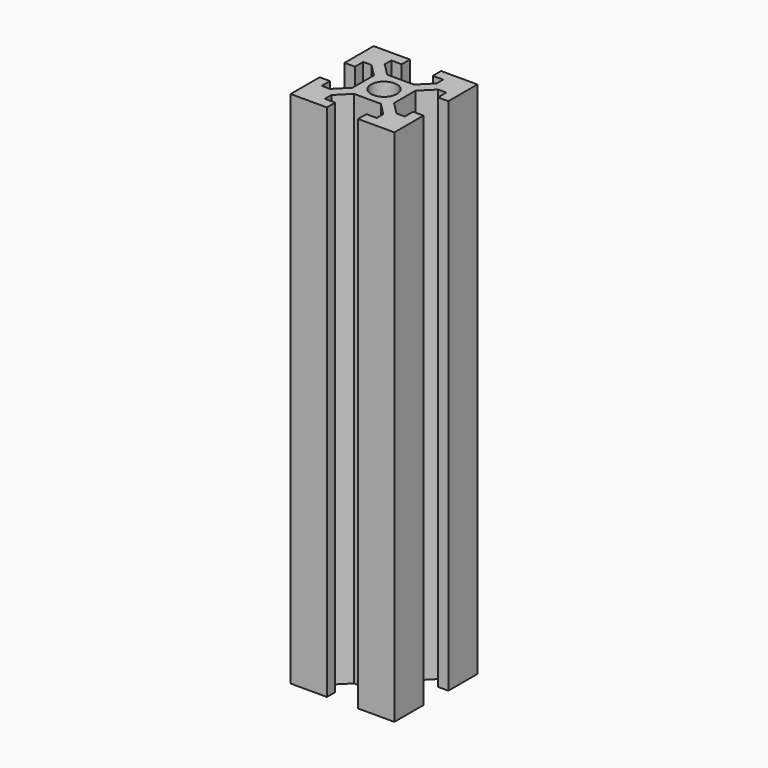
from build123d import *

# Parameters (mm, degrees)
SKETCH_R  = 2.5
PAD_DEPTH = 100


with BuildPart() as part:
    # Sketch → Pad (new body)
    with BuildSketch(Plane.XY):
        Polygon((3, -10), (3, -8), (5, -8), (5, -6.414214), (2.585786, -4), (-2.585786, -4), (-5, -6.414214), (-5, -8), (-3, -8), (-3, -10), (-10, -10), (-10, -3), (-8, -3), (-8, -5), (-6.414214, -5), (-4, -2.585786), (-4, 2.585786), (-6.414214, 5), (-8, 5), (-8, 3), (-10, 3), (-10, 10), (-3, 10), (-3, 8), (-5, 8), (-5, 6.414214), (-2.585786, 4), (2.585786, 4), (5, 6.414214), (5, 8), (3, 8), (3, 10), (10, 10), (10, 3), (8, 3), (8, 5), (6.414214, 5), (4, 2.585786), (4, -2.585786), (6.414214, -5), (8, -5), (8, -3), (10, -3), (10, -10), align=None)
        Circle(SKETCH_R, mode=Mode.SUBTRACT)
    extrude(amount=PAD_DEPTH)


solid = part.part
